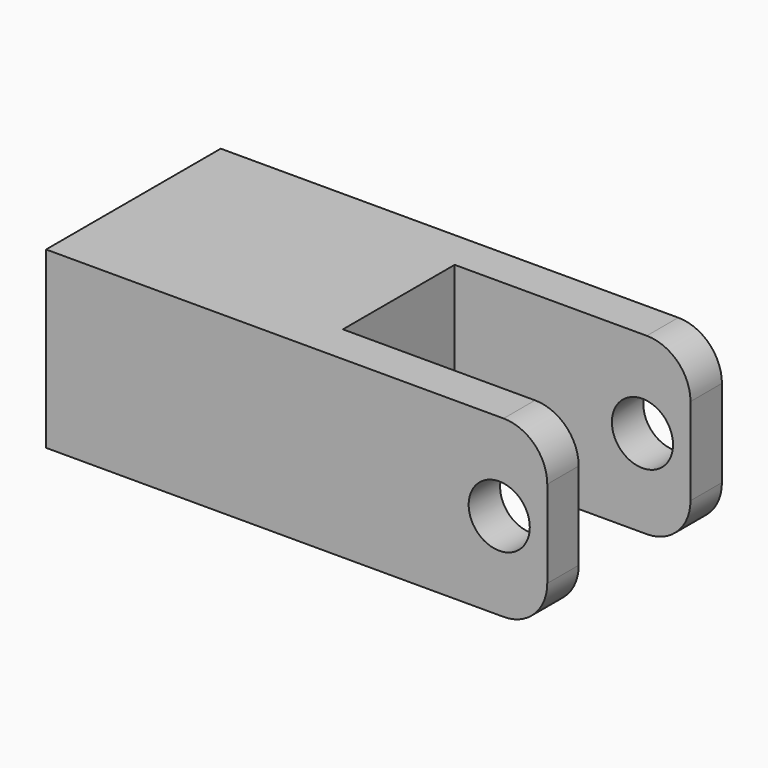
from build123d import *

# Parameters (mm, degrees)
F0_R     = 3.5
F1_DEPTH = 12.5
F2_W     = 8
F2_H     = 5
F2_H_2   = 10
F3_DEPTH = 27


with BuildPart() as f1:
    # F0 (on Front) → F1 (new body, symmetric)
    with BuildSketch(Plane.XZ):
        with BuildLine():
            Line((57.3873014223, 5), (57.3873014223, 15))
            ThreePointArc((57.3873014223, 15), (55.9228353283, 18.5355339059), (52.3873014223, 20))
            Line((52.3873014223, 20), (0, 20))
            Line((0, 20), (0, 0))
            Line((0, 0), (52.3873014223, 0))
            ThreePointArc((52.3873014223, 0), (55.9228353283, 1.4644660941), (57.3873014223, 5))
        make_face()
        with Locations((51.887400426, 10)):
            Circle(F0_R, mode=Mode.SUBTRACT)
    extrude(amount=F1_DEPTH, both=True)

    # F2 (on face) → F3 (cut)
    with BuildSketch(Plane.YZ.offset(57.3873014223)):
        with Locations((-4, 17.5)):
            Rectangle(F2_W, F2_H)
        with Locations((4, 17.5)):
            Rectangle(F2_W, F2_H)
        with Locations((4, 10)):
            Rectangle(F2_W, F2_H_2)
        with Locations((-4, 10)):
            Rectangle(F2_W, F2_H_2)
        with Locations((-4, 2.5)):
            Rectangle(F2_W, F2_H)
        with Locations((4, 2.5)):
            Rectangle(F2_W, F2_H)
        Polygon((-12.5, 21.4797947556), (-12.5, 20), (-8, 20), (0, 20), (8, 20), (12.5, 20), (0, 21.4797947556), align=None)
    extrude(amount=-F3_DEPTH, mode=Mode.SUBTRACT)


solid = f1.part
